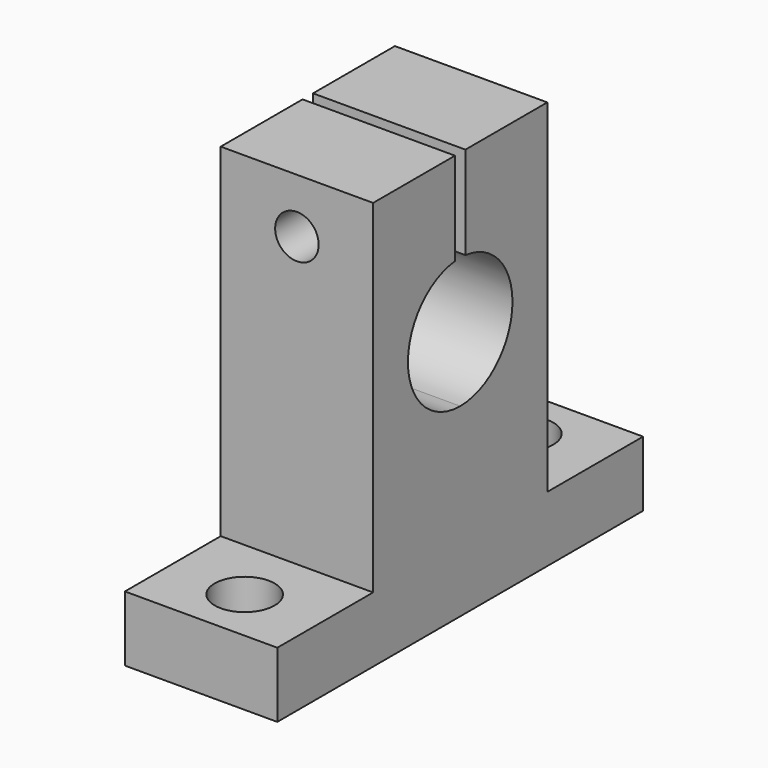
from build123d import *

# Parameters (mm, degrees)
OBJ1_R           = 2.75
OBJ1_DEPTH       = 8
OBJ2           = 2.75
OBJ3       = 8
TBOLT_SHAFT_R          = 2
TBOLT_SHAFT_DEPTH      = 22
TBOLT_SHAFT_ROLL_ANGLE = 90
UP_SEP_W               = 16
UP_SEP_H               = 1.2
UP_SEP_DEPTH           = 15.5
SHAFT_HOLE_R           = 6
SHAFT_HOLE_DEPTH       = 16
SHAFT_HOLE_PITCH_ANGLE = 90
TBOLT_HEAD_R           = 3.85
TBOLT_HEAD_DEPTH       = 5.4
TBOLT_HEAD_ROLL_ANGLE  = 90
SIDE_BOX_L_W           = 14
SIDE_BOX_L_H           = 11
SIDE_BOX_L_DEPTH       = 31.5
SIDE_BOX_R_W           = 14
SIDE_BOX_R_H           = 11
SIDE_BOX_R_DEPTH       = 31.5
TOTAL_BOX_W            = 14
TOTAL_BOX_H            = 42
TOTAL_BOX_DEPTH        = 37.5


with BuildPart() as obj1:
    # obj1 → obj1 (new body)
    with BuildSketch(Plane(origin=(7, -16, -1), x_dir=(1, 0, 0), z_dir=(0, 0, 1))):
        Circle(OBJ1_R)
    extrude(amount=OBJ1_DEPTH)


with BuildPart() as obj4:
    with BuildSketch(Plane(origin=(7, 16, -1), x_dir=(1, 0, 0), z_dir=(0, 0, 1))):
        Circle(OBJ2)
    extrude(amount=OBJ3)

    # obj4: union obj1
    add(obj1.part)


with BuildPart() as tbolt_shaft:
    # tbolt_shaft → tbolt_shaft (new body)
    with BuildSketch(Plane.XY):
        Circle(TBOLT_SHAFT_R)
    extrude(amount=TBOLT_SHAFT_DEPTH)


with BuildPart() as tbolt_shaft_1:
    # tbolt_shaft roll: moved
    add(tbolt_shaft.part.rotate(Axis((0, 0, 0), (1, 0, 0)), TBOLT_SHAFT_ROLL_ANGLE))


with BuildPart() as tbolt_shaft_2:
    # tbolt_shaft placement: moved
    add(tbolt_shaft_1.part.moved(Location((7, 11, 32.5))))


with BuildPart() as up_sep:
    # up_sep → up_sep (new body)
    with BuildSketch(Plane(origin=(-1, -0.6, 24), x_dir=(1, 0, 0), z_dir=(0, 0, 1))):
        with Locations((8, 0.6)):
            Rectangle(UP_SEP_W, UP_SEP_H)
    extrude(amount=UP_SEP_DEPTH)


with BuildPart() as shaft_hole:
    # shaft_hole → shaft_hole (new body)
    with BuildSketch(Plane.XY):
        Circle(SHAFT_HOLE_R)
    extrude(amount=SHAFT_HOLE_DEPTH)


with BuildPart() as shaft_hole_1:
    # shaft_hole pitch: moved
    add(shaft_hole.part.rotate(Axis((0, 0, 0), (0, 1, 0)), SHAFT_HOLE_PITCH_ANGLE))


with BuildPart() as shaft_hole_2:
    # shaft_hole placement: moved
    add(shaft_hole_1.part.moved(Location((-1, 0, 23))))


with BuildPart() as fuse_shaft_holes:
    # tbolt_head → tbolt_head (new body)
    with BuildSketch(Plane.XY):
        Circle(TBOLT_HEAD_R)
    extrude(amount=TBOLT_HEAD_DEPTH)


with BuildPart() as fuse_shaft_holes_1:
    # tbolt_head roll: moved
    add(fuse_shaft_holes.part.rotate(Axis((0, 0, 0), (1, 0, 0)), TBOLT_HEAD_ROLL_ANGLE))


with BuildPart() as fuse_shaft_holes_2:
    # tbolt_head placement: moved
    add(fuse_shaft_holes_1.part.moved(Location((7, 11, 32.5))))

    # fuse_shaft_holes: union tbolt_shaft, up_sep, shaft_hole
    add(tbolt_shaft_2.part)
    add(up_sep.part)
    add(shaft_hole_2.part)


with BuildPart() as side_box_l:
    # side_box_l → side_box_l (new body)
    with BuildSketch(Plane(origin=(0, -21, 6), x_dir=(1, 0, 0), z_dir=(0, 0, 1))):
        with Locations((7, 5.5)):
            Rectangle(SIDE_BOX_L_W, SIDE_BOX_L_H)
    extrude(amount=SIDE_BOX_L_DEPTH)


with BuildPart() as side_boxes:
    # side_box_r → side_box_r (new body)
    with BuildSketch(Plane(origin=(0, 10, 6), x_dir=(1, 0, 0), z_dir=(0, 0, 1))):
        with Locations((7, 5.5)):
            Rectangle(SIDE_BOX_R_W, SIDE_BOX_R_H)
    extrude(amount=SIDE_BOX_R_DEPTH)

    # side_boxes: union side_box_l
    add(side_box_l.part)


with BuildPart() as sk_final:
    # total_box → total_box (new body)
    with BuildSketch(Plane(origin=(0, -21, 0), x_dir=(1, 0, 0), z_dir=(0, 0, 1))):
        with Locations((7, 21)):
            Rectangle(TOTAL_BOX_W, TOTAL_BOX_H)
    extrude(amount=TOTAL_BOX_DEPTH)

    # sk_shape: cut side_boxes
    add(side_boxes.part, mode=Mode.SUBTRACT)

    # sk_shape_w_holes: cut fuse_shaft_holes
    add(fuse_shaft_holes_2.part, mode=Mode.SUBTRACT)

    # sk_final: cut obj4
    add(obj4.part, mode=Mode.SUBTRACT)


solid = sk_final.part
